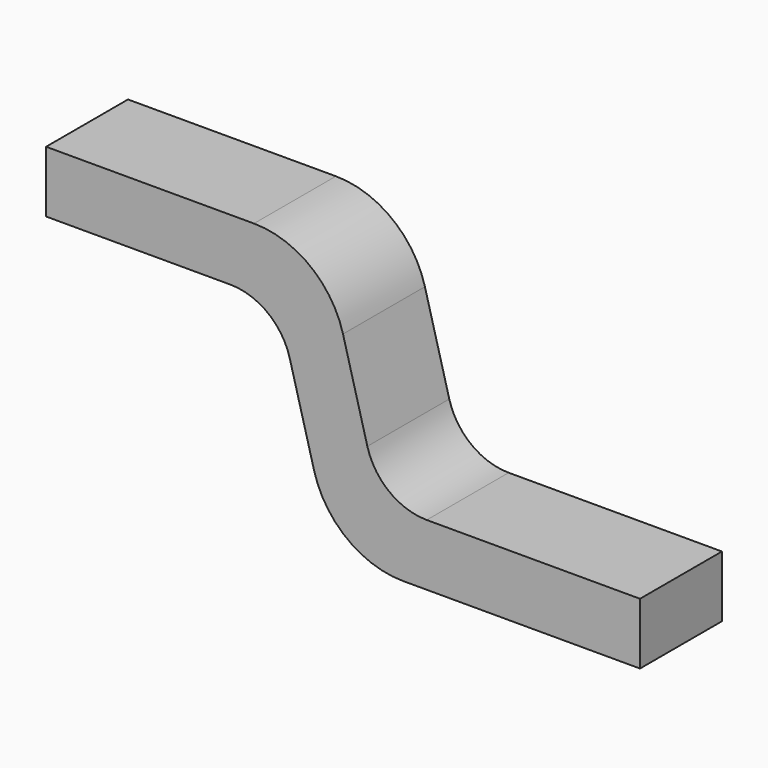
from build123d import *

# Parameters (mm, degrees)
PAD_DEPTH = 0.25


with BuildPart() as part:
    # Sketch → Pad (new body, symmetric)
    with BuildSketch(Plane.XZ):
        with BuildLine():
            Line((0, 1), (0.9, 1))
            ThreePointArc((1.189778, 0.777646), (1.082628, 0.938006), (0.9, 1))
            Line((1.189778, 0.777646), (1.308778, 0.333531))
            ThreePointArc((1.308778, 0.333531), (1.469502, 0.092991), (1.743444, 0))
            Line((1.743444, 0), (2.9, 0))
            Line((2.9, 0), (2.9, 0.3))
            Line((2.9, 0.3), (1.858543, 0.3))
            ThreePointArc((1.568766, 0.522354), (1.675915, 0.361994), (1.858543, 0.3))
            Line((1.568766, 0.522354), (1.449766, 0.966469))
            ThreePointArc((1.449766, 0.966469), (1.289042, 1.207009), (1.015099, 1.3))
            Line((1.015099, 1.3), (0, 1.3))
            Line((0, 1.3), (0, 1))
        make_face()
    extrude(amount=PAD_DEPTH, both=True)


solid = part.part
